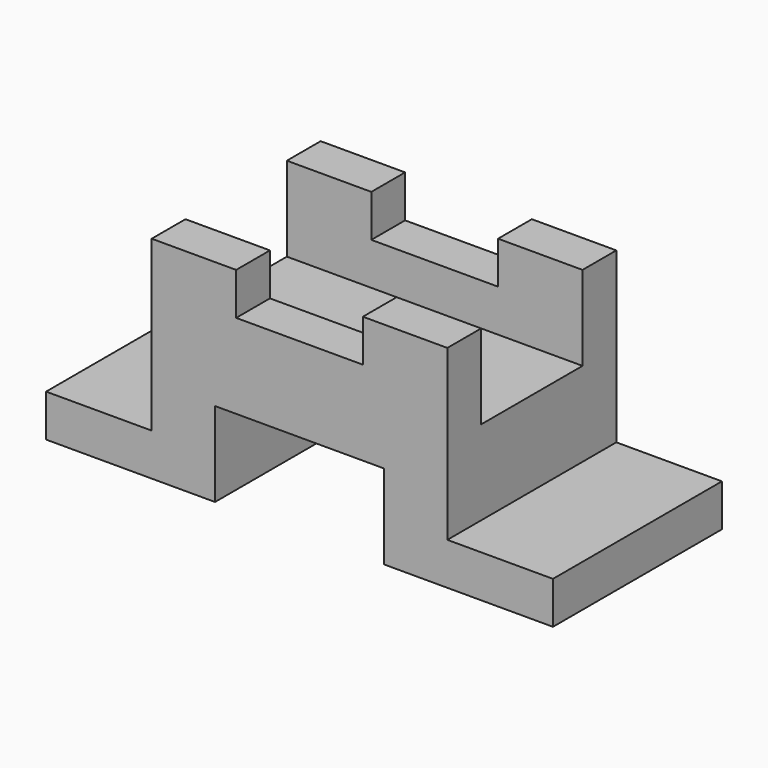
from build123d import *

# Parameters (mm, degrees)
F2_W      = 120
F2_H      = 50
F3_DEPTH  = 50
F4_W      = 120
F4_H      = 30
F5_DEPTH  = 20
F6_W      = 40
F6_H      = 50
F7_DEPTH  = 20
F8_W      = 25
F8_H      = 40
F9_DEPTH  = 50
F10_W     = 25
F10_H     = 40
F11_DEPTH = 50
F12_W     = 30
F12_H     = 20
F13_DEPTH = 50


with BuildPart() as f3:
    # F2 (on Top) → F3 (new body)
    with BuildSketch(Plane.XY):
        Rectangle(F2_W, F2_H)
    extrude(amount=F3_DEPTH)

    # F4 (on face) → F5 (cut)
    with BuildSketch(Plane.XY.offset(50)):
        Rectangle(F4_W, F4_H)
    extrude(amount=-F5_DEPTH, mode=Mode.SUBTRACT)

    # F6 (on face) → F7 (cut)
    with BuildSketch(Plane(origin=(0, 0, 0), x_dir=(1, 0, 0), z_dir=(0, 0, -1))):
        Rectangle(F6_W, F6_H)
    extrude(amount=-F7_DEPTH, mode=Mode.SUBTRACT)

    # F8 (on face) → F9 (cut)
    with BuildSketch(Plane.XZ.offset(25)):
        with Locations((-47.5, 30)):
            Rectangle(F8_W, F8_H)
    extrude(amount=-F9_DEPTH, mode=Mode.SUBTRACT)

    # F10 (on face) → F11 (cut)
    with BuildSketch(Plane.XZ.offset(25)):
        with Locations((47.5, 30)):
            Rectangle(F10_W, F10_H)
    extrude(amount=-F11_DEPTH, mode=Mode.SUBTRACT)

    # F12 (on face) → F13 (cut)
    with BuildSketch(Plane.XZ.offset(25)):
        with Locations((0, 50)):
            Rectangle(F12_W, F12_H)
    extrude(amount=-F13_DEPTH, mode=Mode.SUBTRACT)


solid = f3.part
